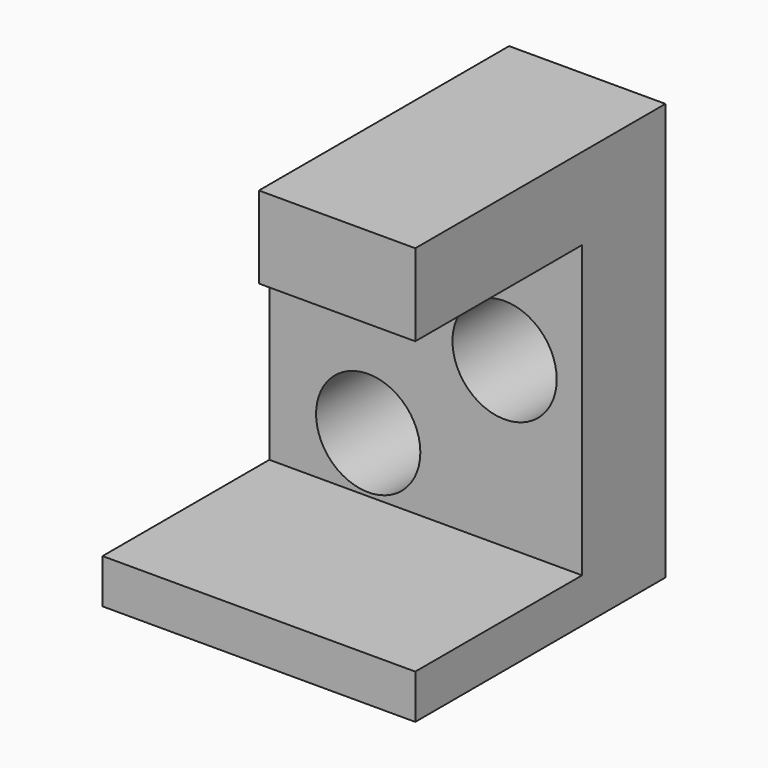
from build123d import *

# Parameters (mm, degrees)
F0_R     = 12.7
F1_DEPTH = 25.4
F0_W     = 38.1
F0_H     = 19.960821
F0_W_2   = 76.2
F0_H_2   = 10.794998
F2_DEPTH = 76.2


with BuildPart() as f1:
    # F0 (on Front) → F1 (new body)
    with BuildSketch(Plane.XZ):
        Polygon((60.409845, 30.839179), (22.309845, 30.839179), (22.309845, 0), (-15.790155, 0), (-15.790155, -40.005002), (60.409845, -40.005002), (60.409845, 0), align=None)
        with Locations((8.306528, -26.447218)):
            Circle(F0_R, mode=Mode.SUBTRACT)
        with Locations((41.532636, 0)):
            Circle(F0_R, mode=Mode.SUBTRACT)
    extrude(amount=F1_DEPTH)

    # F0 (on Front) → F2 (join)
    with BuildSketch(Plane.XZ):
        with Locations((41.359845, 40.819589)):
            Rectangle(F0_W, F0_H)
        with Locations((22.309845, -45.402501)):
            Rectangle(F0_W_2, F0_H_2)
    extrude(amount=F2_DEPTH)


solid = f1.part
